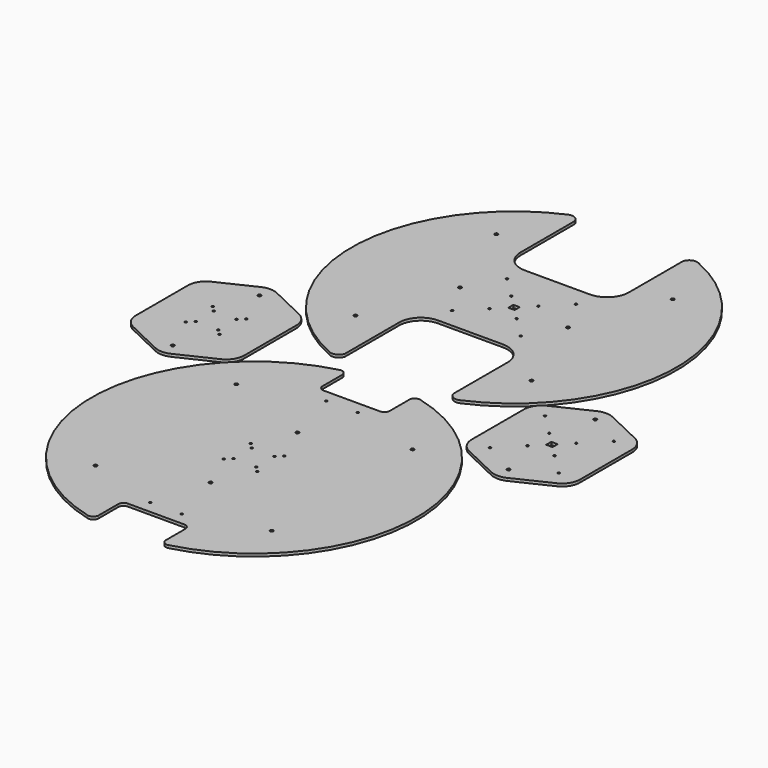
from build123d import *

# Parameters (mm, degrees)
SKETCH001_R   = 3
SKETCH001_R_2 = 2
SKETCH001_W   = 11.8
SKETCH001_H   = 11.8
PAD_DEPTH     = 5
SKETCH_R      = 3
SKETCH_R_2    = 2
SKETCH_W      = 11.8
SKETCH_H      = 11.8
PAD001_DEPTH  = 5
SKETCH002_R   = 3
SKETCH002_R_2 = 2
PAD002_DEPTH  = 5
SKETCH004_R   = 2
SKETCH004_R_2 = 3
PAD004_DEPTH  = 5


with BuildPart() as top:
    # Sketch001 → Pad (new body)
    with BuildSketch(Plane(origin=(0, 600, 0), x_dir=(1, 0, 0), z_dir=(0, 0, 1))):
        with BuildLine():
            Line((100, 265), (100, 140))
            ThreePointArc((60, 100), (88.284271, 111.715729), (100, 140))
            Line((60, 100), (-60, 100))
            ThreePointArc((-100, 140), (-88.284271, 111.715729), (-60, 100))
            Line((-100, 140), (-100, 265))
            ThreePointArc((-100, 265), (-108.023626, 274.555822), (-120.5, 274.735782))
            ThreePointArc((-120.5, 274.735782), (-300, 0), (-120.5, -274.735782))
            ThreePointArc((-120.5, -274.735782), (-108.023626, -274.555822), (-100, -265))
            Line((-100, -265), (-100, -140))
            ThreePointArc((-60, -100), (-88.284271, -111.715729), (-100, -140))
            Line((-60, -100), (60, -100))
            ThreePointArc((100, -140), (88.284271, -111.715729), (60, -100))
            Line((100, -140), (100, -265))
            ThreePointArc((100, -265), (108.023626, -274.555822), (120.5, -274.735782))
            ThreePointArc((120.5, -274.735782), (300, 0), (120.5, 274.735782))
            ThreePointArc((120.5, 274.735782), (108.023626, 274.555822), (100, 265))
        make_face()
        with Locations((100, 0)):
            Circle(SKETCH001_R, mode=Mode.SUBTRACT)
        with Locations((-100, 0)):
            Circle(SKETCH001_R, mode=Mode.SUBTRACT)
        with Locations((-162.6345, 162.634619)):
            Circle(SKETCH001_R, mode=Mode.SUBTRACT)
        with Locations((162.6345, 162.634619)):
            Circle(SKETCH001_R, mode=Mode.SUBTRACT)
        with Locations((-162.6345, -162.634619)):
            Circle(SKETCH001_R, mode=Mode.SUBTRACT)
        with Locations((162.6345, -162.634619)):
            Circle(SKETCH001_R, mode=Mode.SUBTRACT)
        with Locations((-25, 25)):
            Circle(SKETCH001_R_2, mode=Mode.SUBTRACT)
        with Locations((25, -25)):
            Circle(SKETCH001_R_2, mode=Mode.SUBTRACT)
        with Locations((-63.5, 63.5)):
            Circle(SKETCH001_R_2, mode=Mode.SUBTRACT)
        with Locations((25, 25)):
            Circle(SKETCH001_R_2, mode=Mode.SUBTRACT)
        with Locations((63.5, 63.5)):
            Circle(SKETCH001_R_2, mode=Mode.SUBTRACT)
        with Locations((63.5, -63.5)):
            Circle(SKETCH001_R_2, mode=Mode.SUBTRACT)
        with Locations((-25, -25)):
            Circle(SKETCH001_R_2, mode=Mode.SUBTRACT)
        with Locations((-63.5, -63.5)):
            Circle(SKETCH001_R_2, mode=Mode.SUBTRACT)
        Rectangle(SKETCH001_W, SKETCH001_H, mode=Mode.SUBTRACT)
    extrude(amount=PAD_DEPTH)


with BuildPart() as obj1:
    # Sketch → Pad001 (new body)
    with BuildSketch(Plane(origin=(310, 300, 0), x_dir=(0, 1, 0), z_dir=(0, 0, 1))):
        with BuildLine():
            Line((-60, -100), (60, -100))
            ThreePointArc((60, -100), (77.731043, -94.878247), (90, -81.090757))
            Line((90, -81.090757), (121.59857, -15))
            ThreePointArc((121.59857, -15), (125, 0), (121.59857, 15))
            Line((121.59857, 15), (90, 81.090757))
            ThreePointArc((90, 81.090757), (77.731043, 94.878247), (60, 100))
            Line((60, 100), (-60, 100))
            ThreePointArc((-60, 100), (-77.731043, 94.878247), (-90, 81.090757))
            Line((-90, 81.090757), (-121.59857, 15))
            ThreePointArc((-121.59857, 15), (-125, 0), (-121.59857, -15))
            Line((-121.59857, -15), (-90, -81.090757))
            ThreePointArc((-90, -81.090757), (-77.731043, -94.878247), (-60, -100))
        make_face()
        with Locations((-100, 0)):
            Circle(SKETCH_R, mode=Mode.SUBTRACT)
        with Locations((100, 0)):
            Circle(SKETCH_R, mode=Mode.SUBTRACT)
        with Locations((-25, 25)):
            Circle(SKETCH_R_2, mode=Mode.SUBTRACT)
        with Locations((25, 25)):
            Circle(SKETCH_R_2, mode=Mode.SUBTRACT)
        with Locations((-63.5, 63.5)):
            Circle(SKETCH_R_2, mode=Mode.SUBTRACT)
        with Locations((63.5, 63.5)):
            Circle(SKETCH_R_2, mode=Mode.SUBTRACT)
        with Locations((-63.5, -63.5)):
            Circle(SKETCH_R_2, mode=Mode.SUBTRACT)
        with Locations((63.5, -63.5)):
            Circle(SKETCH_R_2, mode=Mode.SUBTRACT)
        with Locations((-25, -25)):
            Circle(SKETCH_R_2, mode=Mode.SUBTRACT)
        with Locations((25, -25)):
            Circle(SKETCH_R_2, mode=Mode.SUBTRACT)
        Rectangle(SKETCH_W, SKETCH_H, mode=Mode.SUBTRACT)
    extrude(amount=PAD001_DEPTH)


with BuildPart() as obj2:
    # Sketch002 → Pad002 (new body)
    with BuildSketch(Plane(origin=(-310, 300, 0), x_dir=(0, 1, 0), z_dir=(0, 0, 1))):
        with BuildLine():
            Line((-60, -100), (60, -100))
            ThreePointArc((60, -100), (77.731043, -94.878247), (90, -81.090757))
            Line((90, -81.090757), (121.59857, -15))
            ThreePointArc((121.59857, -15), (125, 0), (121.59857, 15))
            Line((121.59857, 15), (90, 81.090757))
            ThreePointArc((90, 81.090757), (77.731043, 94.878247), (60, 100))
            Line((60, 100), (-60, 100))
            ThreePointArc((-60, 100), (-77.731043, 94.878247), (-90, 81.090757))
            Line((-90, 81.090757), (-121.59857, 15))
            ThreePointArc((-121.59857, 15), (-125, 0), (-121.59857, -15))
            Line((-121.59857, -15), (-90, -81.090757))
            ThreePointArc((-90, -81.090757), (-77.731043, -94.878247), (-60, -100))
        make_face()
        with Locations((-100, 0)):
            Circle(SKETCH002_R, mode=Mode.SUBTRACT)
        with Locations((100, 0)):
            Circle(SKETCH002_R, mode=Mode.SUBTRACT)
        with Locations((-21, 21)):
            Circle(SKETCH002_R_2, mode=Mode.SUBTRACT)
        with Locations((21, 21)):
            Circle(SKETCH002_R_2, mode=Mode.SUBTRACT)
        with Locations((-31, 31)):
            Circle(SKETCH002_R_2, mode=Mode.SUBTRACT)
        with Locations((31, 31)):
            Circle(SKETCH002_R_2, mode=Mode.SUBTRACT)
        with Locations((-31, -31)):
            Circle(SKETCH002_R_2, mode=Mode.SUBTRACT)
        with Locations((31, -31)):
            Circle(SKETCH002_R_2, mode=Mode.SUBTRACT)
        with Locations((-21, -21)):
            Circle(SKETCH002_R_2, mode=Mode.SUBTRACT)
        with Locations((21, -21)):
            Circle(SKETCH002_R_2, mode=Mode.SUBTRACT)
    extrude(amount=PAD002_DEPTH)


with BuildPart() as bottom:
    # Sketch004 → Pad004 (new body)
    with BuildSketch(Plane.XY):
        with BuildLine():
            Line((-62, 280.919938), (-62, 235.919938))
            ThreePointArc((-62, 235.919938), (-59.071068, 228.84887), (-52, 225.919938))
            Line((-52, 225.919938), (52, 225.919938))
            ThreePointArc((52, 225.919938), (59.071068, 228.84887), (62, 235.919938))
            Line((62, 235.919938), (62, 280.919938))
            ThreePointArc((74.5, 290.602392), (65.876278, 288.825629), (62, 280.919938))
            ThreePointArc((74.5, -290.602392), (300, 0), (74.5, 290.602392))
            ThreePointArc((62, -280.919938), (65.876278, -288.825629), (74.5, -290.602392))
            Line((62, -235.919938), (62, -280.919938))
            ThreePointArc((62, -235.919938), (59.071068, -228.84887), (52, -225.919938))
            Line((-52, -225.919938), (52, -225.919938))
            ThreePointArc((-52, -225.919938), (-59.071068, -228.84887), (-62, -235.919938))
            Line((-62, -280.919938), (-62, -235.919938))
            ThreePointArc((-74.5, -290.602392), (-65.876278, -288.825629), (-62, -280.919938))
            ThreePointArc((-74.5, 290.602392), (-300, 0), (-74.5, -290.602392))
            ThreePointArc((-62, 280.919938), (-65.876278, 288.825629), (-74.5, 290.602392))
        make_face()
        with Locations((-21, 21)):
            Circle(SKETCH004_R, mode=Mode.SUBTRACT)
        with Locations((-31, 31)):
            Circle(SKETCH004_R, mode=Mode.SUBTRACT)
        with Locations((21, 21)):
            Circle(SKETCH004_R, mode=Mode.SUBTRACT)
        with Locations((31, 31)):
            Circle(SKETCH004_R, mode=Mode.SUBTRACT)
        with Locations((-21, -21)):
            Circle(SKETCH004_R, mode=Mode.SUBTRACT)
        with Locations((-31, -31)):
            Circle(SKETCH004_R, mode=Mode.SUBTRACT)
        with Locations((21, -21)):
            Circle(SKETCH004_R, mode=Mode.SUBTRACT)
        with Locations((31, -31)):
            Circle(SKETCH004_R, mode=Mode.SUBTRACT)
        with Locations((0, 100)):
            Circle(SKETCH004_R_2, mode=Mode.SUBTRACT)
        with Locations((0, -100)):
            Circle(SKETCH004_R_2, mode=Mode.SUBTRACT)
        with Locations((-162.6345, 162.634619)):
            Circle(SKETCH004_R_2, mode=Mode.SUBTRACT)
        with Locations((162.6345, 162.634619)):
            Circle(SKETCH004_R_2, mode=Mode.SUBTRACT)
        with Locations((-162.6345, -162.634619)):
            Circle(SKETCH004_R_2, mode=Mode.SUBTRACT)
        with Locations((162.6345, -162.634619)):
            Circle(SKETCH004_R_2, mode=Mode.SUBTRACT)
        with Locations((-29, 202.919938)):
            Circle(SKETCH004_R, mode=Mode.SUBTRACT)
        with Locations((29, 202.919938)):
            Circle(SKETCH004_R, mode=Mode.SUBTRACT)
        with Locations((-29, -202.919938)):
            Circle(SKETCH004_R, mode=Mode.SUBTRACT)
        with Locations((29, -202.919938)):
            Circle(SKETCH004_R, mode=Mode.SUBTRACT)
    extrude(amount=PAD004_DEPTH)


solid = Compound([top.part, obj1.part, obj2.part, bottom.part])
